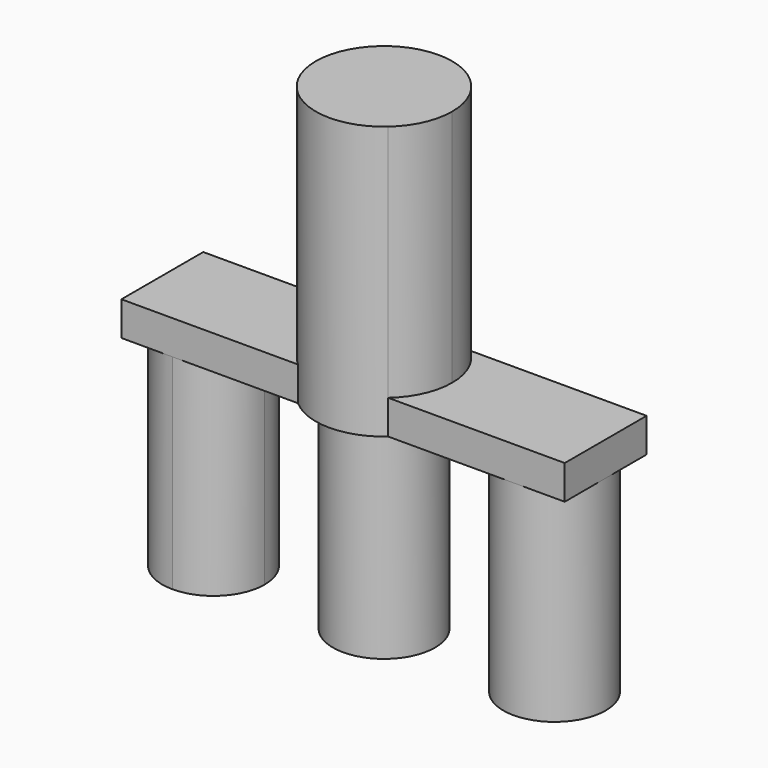
from build123d import *

# Parameters (mm, degrees)
F1_DEPTH = 12.7
F2_DEPTH = 76.2
F3_DEPTH = 101.6


with BuildPart() as f1:
    # F0 (on Top) → F1 (new body)
    with BuildSketch(Plane.XY):
        with BuildLine():
            Line((82.55, 0), (82.55, 19.05))
            Line((82.55, 19.05), (63.5, 19.05))
            ThreePointArc((63.5, 19.05), (76.9703841816, 13.4703841816), (82.55, 0))
        make_face()
        with BuildLine():
            ThreePointArc((63.5, -19.05), (44.45, 0), (63.5, 19.05))
            Line((63.5, 19.05), (16.8005208253, 19.05))
            ThreePointArc((16.8005208253, 19.05), (23.1505208253, 10.4505208253), (25.4, 0))
            ThreePointArc((25.4, 0), (23.1505208253, -10.4505208253), (16.8005208253, -19.05))
            Line((16.8005208253, -19.05), (63.5, -19.05))
        make_face()
        with BuildLine():
            ThreePointArc((82.55, 0), (76.9703841816, 13.4703841816), (63.5, 19.05))
            ThreePointArc((63.5, 19.05), (44.45, 0), (63.5, -19.05))
            ThreePointArc((63.5, -19.05), (76.9703841816, -13.4703841816), (82.55, 0))
        make_face()
        with BuildLine():
            Line((82.55, -19.05), (82.55, 0))
            ThreePointArc((82.55, 0), (76.9703841816, -13.4703841816), (63.5, -19.05))
            Line((63.5, -19.05), (82.55, -19.05))
        make_face()
        with BuildLine():
            ThreePointArc((25.4, 0), (23.1505208253, 10.4505208253), (16.8005208253, 19.05))
            Line((16.8005208253, 19.05), (-5.96e-08, 19.05))
            ThreePointArc((-5.96e-08, 19.05), (13.4703841605, 13.4703842027), (19.05, 0))
            ThreePointArc((19.05, 0), (13.4703841555, -13.4703842077), (-7.38e-08, -19.05))
            Line((-7.38e-08, -19.05), (16.8005208253, -19.05))
            ThreePointArc((16.8005208253, -19.05), (23.1505208253, -10.4505208253), (25.4, 0))
        make_face()
        with BuildLine():
            Line((-5.96e-08, 19.05), (16.8005208253, 19.05))
            ThreePointArc((16.8005208253, 19.05), (0, 25.4), (-16.8005208253, 19.05))
            Line((-16.8005208253, 19.05), (-5.96e-08, 19.05))
        make_face()
        with BuildLine():
            ThreePointArc((-7.38e-08, -19.05), (-19.05, 7.1e-09), (-5.96e-08, 19.05))
            Line((-5.96e-08, 19.05), (-16.8005208253, 19.05))
            ThreePointArc((-16.8005208253, 19.05), (-25.4, 0), (-16.8005208253, -19.05))
            Line((-16.8005208253, -19.05), (-7.38e-08, -19.05))
        make_face()
        with BuildLine():
            ThreePointArc((-16.8005208253, -19.05), (-25.4, 0), (-16.8005208253, 19.05))
            Line((-16.8005208253, 19.05), (-63.5, 19.05))
            ThreePointArc((-63.5, 19.05), (-50.0296158184, 13.4703841816), (-44.45, 0))
            ThreePointArc((-44.45, 0), (-50.0296158184, -13.4703841816), (-63.5, -19.05))
            Line((-63.5, -19.05), (-16.8005208253, -19.05))
        make_face()
        with BuildLine():
            ThreePointArc((-16.8005208253, -19.05), (0, -25.4), (16.8005208253, -19.05))
            Line((16.8005208253, -19.05), (-7.38e-08, -19.05))
            Line((-7.38e-08, -19.05), (-16.8005208253, -19.05))
        make_face()
        with BuildLine():
            ThreePointArc((-82.55, 1.56e-07), (-76.9703841264, 13.4703842368), (-63.5, 19.05))
            Line((-63.5, 19.05), (-82.55, 19.05))
            Line((-82.55, 19.05), (-82.55, 1.56e-07))
        make_face()
        with BuildLine():
            ThreePointArc((-44.45, 0), (-50.0296158184, 13.4703841816), (-63.5, 19.05))
            ThreePointArc((-63.5, 19.05), (-76.9703841264, 13.4703842368), (-82.55, 1.56e-07))
            ThreePointArc((-82.55, 1.56e-07), (-76.9703842368, -13.4703841264), (-63.5, -19.05))
            ThreePointArc((-63.5, -19.05), (-50.0296158184, -13.4703841816), (-44.45, 0))
        make_face()
        with BuildLine():
            ThreePointArc((-63.5, -19.05), (-76.9703842368, -13.4703841264), (-82.55, 1.56e-07))
            Line((-82.55, 1.56e-07), (-82.55, -19.05))
            Line((-82.55, -19.05), (-63.5, -19.05))
        make_face()
    extrude(amount=F1_DEPTH)

    # F0 (on Top) → F2 (join)
    with BuildSketch(Plane.XY):
        with BuildLine():
            ThreePointArc((-44.45, 0), (-50.0296158184, 13.4703841816), (-63.5, 19.05))
            ThreePointArc((-63.5, 19.05), (-76.9703841264, 13.4703842368), (-82.55, 1.56e-07))
            ThreePointArc((-82.55, 1.56e-07), (-76.9703842368, -13.4703841264), (-63.5, -19.05))
            ThreePointArc((-63.5, -19.05), (-50.0296158184, -13.4703841816), (-44.45, 0))
        make_face()
        with BuildLine():
            ThreePointArc((19.05, 0), (13.4703841605, 13.4703842027), (-5.96e-08, 19.05))
            ThreePointArc((-5.96e-08, 19.05), (-19.05, 7.1e-09), (-7.38e-08, -19.05))
            ThreePointArc((-7.38e-08, -19.05), (13.4703841555, -13.4703842077), (19.05, 0))
        make_face()
        with BuildLine():
            ThreePointArc((82.55, 0), (76.9703841816, 13.4703841816), (63.5, 19.05))
            ThreePointArc((63.5, 19.05), (44.45, 0), (63.5, -19.05))
            ThreePointArc((63.5, -19.05), (76.9703841816, -13.4703841816), (82.55, 0))
        make_face()
    extrude(amount=-F2_DEPTH)


with BuildPart() as f3:
    # F0 (on Top) → F3 (new body)
    with BuildSketch(Plane.XY):
        with BuildLine():
            ThreePointArc((-7.38e-08, -19.05), (-19.05, 7.1e-09), (-5.96e-08, 19.05))
            Line((-5.96e-08, 19.05), (-16.8005208253, 19.05))
            ThreePointArc((-16.8005208253, 19.05), (-25.4, 0), (-16.8005208253, -19.05))
            Line((-16.8005208253, -19.05), (-7.38e-08, -19.05))
        make_face()
        with BuildLine():
            ThreePointArc((19.05, 0), (13.4703841605, 13.4703842027), (-5.96e-08, 19.05))
            ThreePointArc((-5.96e-08, 19.05), (-19.05, 7.1e-09), (-7.38e-08, -19.05))
            ThreePointArc((-7.38e-08, -19.05), (13.4703841555, -13.4703842077), (19.05, 0))
        make_face()
        with BuildLine():
            ThreePointArc((-16.8005208253, -19.05), (0, -25.4), (16.8005208253, -19.05))
            Line((16.8005208253, -19.05), (-7.38e-08, -19.05))
            Line((-7.38e-08, -19.05), (-16.8005208253, -19.05))
        make_face()
        with BuildLine():
            ThreePointArc((25.4, 0), (23.1505208253, 10.4505208253), (16.8005208253, 19.05))
            Line((16.8005208253, 19.05), (-5.96e-08, 19.05))
            ThreePointArc((-5.96e-08, 19.05), (13.4703841605, 13.4703842027), (19.05, 0))
            ThreePointArc((19.05, 0), (13.4703841555, -13.4703842077), (-7.38e-08, -19.05))
            Line((-7.38e-08, -19.05), (16.8005208253, -19.05))
            ThreePointArc((16.8005208253, -19.05), (23.1505208253, -10.4505208253), (25.4, 0))
        make_face()
        with BuildLine():
            Line((-5.96e-08, 19.05), (16.8005208253, 19.05))
            ThreePointArc((16.8005208253, 19.05), (0, 25.4), (-16.8005208253, 19.05))
            Line((-16.8005208253, 19.05), (-5.96e-08, 19.05))
        make_face()
    extrude(amount=F3_DEPTH)


solid = Compound([f1.part, f3.part])
